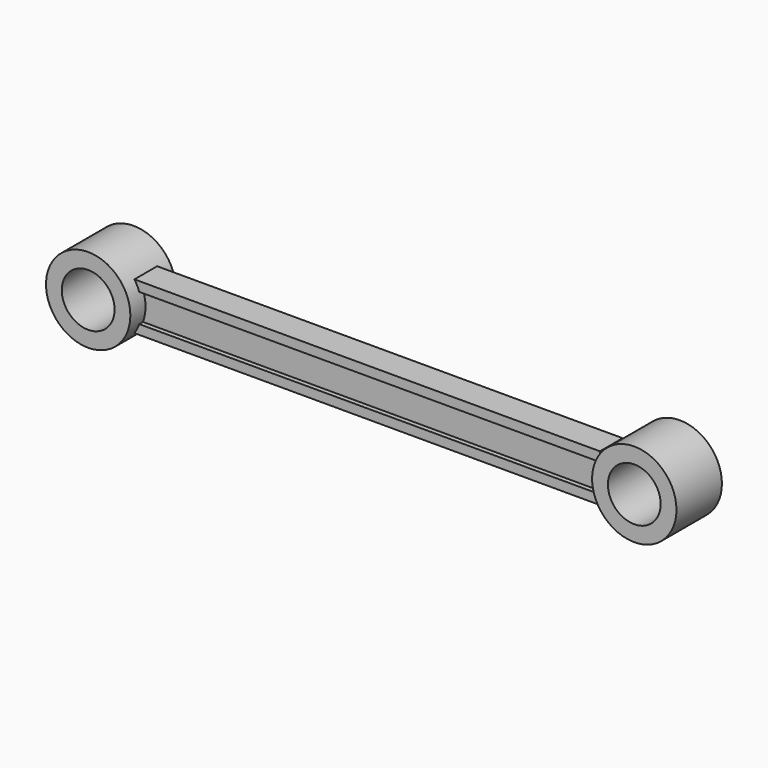
from build123d import *

# Parameters (mm, degrees)
F1_DEPTH = 50
F2_R     = 8.9077979458
F2_R_2   = 5.5703781545
F3_DEPTH = 6


with BuildPart() as f1:
    # F0 (on Right) → F1 (new body, symmetric)
    with BuildSketch(Plane.YZ):
        Polygon((0, -3), (-2, -3), (-3, -3), (-3, -5), (0, -5), (3, -5), (3, -3), (2, -3), align=None)
        Polygon((0, 3), (-2, 3), (-2, -3), (0, -3), (0, 0), align=None)
        Polygon((2, 3), (0, 3), (0, 0), (0, -3), (2, -3), align=None)
        Polygon((0, 5), (-3, 5), (-3, 3), (-2, 3), (0, 3), (2, 3), (3, 3), (3, 5), align=None)
    extrude(amount=F1_DEPTH, both=True)

    # F2 (on Front) → F3 (join, symmetric)
    with BuildSketch(Plane.XZ):
        with Locations((-55.6835867465, 0)):
            Circle(F2_R)
        with Locations((-55.6835867465, 0)):
            Circle(F2_R_2, mode=Mode.SUBTRACT)
    extrude(amount=F3_DEPTH, both=True)


with BuildPart() as f3:
    # F2 (on Front) → F3, piece 2 (new body, symmetric)
    with BuildSketch(Plane.XZ):
        with Locations((59.655547142, 1.357564237)):
            Circle(F2_R)
        with Locations((59.655547142, 1.357564237)):
            Circle(F2_R_2, mode=Mode.SUBTRACT)
    extrude(amount=F3_DEPTH, both=True)


solid = Compound([f1.part, f3.part])
